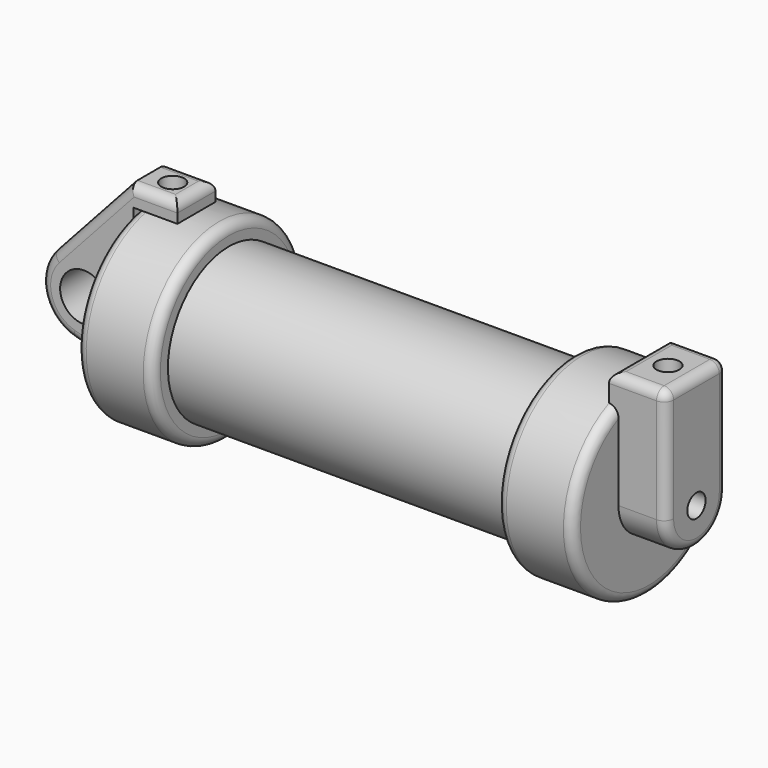
from build123d import *

# Parameters (mm, degrees)
F0_W       = 5.842
F0_H       = 12.7
F0_R       = 3.175
F2_DEPTH   = 3.175
F3_R       = 1.524
F4_DEPTH   = 1.27
F5_DEPTH   = 6.35
F6_R       = 1.27
F6_2_R     = 1.27
F9_D       = 3.048
F9_DEPTH   = 17.78
F9_TIP     = 0.9157115834
F9_2_D     = 3.048
F9_2_DEPTH = 17.78
F9_2_TIP   = 0.9157115834
F10_D      = 3.048
F10_DEPTH  = 10.414
F10_TIP    = 0.9157115834


with BuildPart() as f1:
    # F0 (on Front) → F1 (revolve)
    with BuildSketch(Plane.XZ):
        Polygon((5.842, 12.7), (5.842, 0), (66.294, 0), (66.294, 12.7), (56.134, 12.7), (56.134, 10.16), (10.16, 10.16), (10.16, 12.7), align=None)
        with Locations((2.921, 6.35)):
            Rectangle(F0_W, F0_H)
    revolve(axis=Axis((33.147, 0, 0), (-1, 0, 0)))

    # F3 (on face) → F4 (join)
    with BuildSketch(Plane.YZ.offset(66.294)):
        with BuildLine():
            ThreePointArc((-5.08, 0), (0, 5.08), (5.08, 0))
            Line((5.08, 0), (5.08, 11.6397422652))
            ThreePointArc((5.08, 11.6397422652), (0, 12.7), (-5.08, 11.6397422652))
            Line((-5.08, 11.6397422652), (-5.08, 0))
        make_face()
        with BuildLine():
            ThreePointArc((-5.08, 11.6397422652), (0, 12.7), (5.08, 11.6397422652))
            Line((5.08, 11.6397422652), (5.08, 15.24))
            Line((5.08, 15.24), (-5.08, 15.24))
            Line((-5.08, 15.24), (-5.08, 11.6397422652))
        make_face()
        with BuildLine():
            ThreePointArc((-5.08, 0), (0, -5.08), (5.08, 0))
            ThreePointArc((5.08, 0), (0, 5.08), (-5.08, 0))
        make_face()
        Circle(F3_R, mode=Mode.SUBTRACT)
    extrude(amount=-F4_DEPTH)

    # F3 (on face) → F5 (join)
    with BuildSketch(Plane.YZ.offset(66.294)):
        with BuildLine():
            ThreePointArc((-5.08, 0), (0, -5.08), (5.08, 0))
            ThreePointArc((5.08, 0), (0, 5.08), (-5.08, 0))
        make_face()
        Circle(F3_R, mode=Mode.SUBTRACT)
        with BuildLine():
            ThreePointArc((-5.08, 0), (0, 5.08), (5.08, 0))
            Line((5.08, 0), (5.08, 11.6397422652))
            ThreePointArc((5.08, 11.6397422652), (0, 12.7), (-5.08, 11.6397422652))
            Line((-5.08, 11.6397422652), (-5.08, 0))
        make_face()
        with BuildLine():
            ThreePointArc((-5.08, 11.6397422652), (0, 12.7), (5.08, 11.6397422652))
            Line((5.08, 11.6397422652), (5.08, 15.24))
            Line((5.08, 15.24), (-5.08, 15.24))
            Line((-5.08, 15.24), (-5.08, 11.6397422652))
        make_face()
    extrude(amount=F5_DEPTH)

    # F6
    f6_edges = [f1.edges().sort_by_distance(p)[0] for p in [
        (72.644, 0, 15.24),
        (68.834, 5.08, 15.24),
        (68.834, -5.08, 15.24),
        (66.294, 0, -12.7),
        (56.134, 0, -12.7),
        (65.024, 0, 15.24),
        (72.644, 0, -5.08),
        (0, 0, -12.7),
        (10.16, 0, -12.7),
    ]]
    fillet(f6_edges, radius=F6_R)

    # F9
    with Locations(Plane.XY.offset(15.24)):
        with Locations((2.667, 0)):
            Hole(F9_D / 2, depth=F9_DEPTH)
            with Locations((0, 0, -(F9_DEPTH + F9_TIP / 2))):  # 118° drill point
                Cone(0, F9_D / 2, F9_TIP, mode=Mode.SUBTRACT)

    # F10
    with Locations(Plane.XY.offset(15.24)):
        with Locations((68.834, 0)):
            Hole(F10_D / 2, depth=F10_DEPTH)
            with Locations((0, 0, -(F10_DEPTH + F10_TIP / 2))):  # 118° drill point
                Cone(0, F10_D / 2, F10_TIP, mode=Mode.SUBTRACT)


with BuildPart() as f2:
    # F0 (on Front) → F2 (new body, symmetric)
    with BuildSketch(Plane.XZ):
        with BuildLine():
            ThreePointArc((-8.1826630726, -5.5069827884), (-3.1957909266, -4.5493385486), (-0.9398, 0))
            ThreePointArc((-0.9398, 0), (-4.5919612295, 5.3297205562), (-10.8806298187, 3.8475430269))
            ThreePointArc((-10.8806298187, 3.8475430269), (-12.1459778134, -1.5837270034), (-8.1826630726, -5.5069827884))
        make_face()
        with Locations((-6.6548, 0)):
            Circle(F0_R, mode=Mode.SUBTRACT)
        with BuildLine():
            Line((5.842, 0), (0, 0))
            Line((0, 0), (-0.9398, 0))
            ThreePointArc((-0.9398, 0), (-3.1957909266, -4.5493385486), (-8.1826630726, -5.5069827884))
            Line((-8.1826630726, -5.5069827884), (5.842, -9.398))
            Line((5.842, -9.398), (5.842, 0))
        make_face()
        with BuildLine():
            Line((-0.9398, 0), (0, 0))
            Line((0, 0), (0, 12.7))
            Line((0, 12.7), (5.842, 12.7))
            Line((5.842, 12.7), (5.842, 15.24))
            Line((5.842, 15.24), (-0.508, 15.24))
            Line((-0.508, 15.24), (-10.8806298187, 3.8475430269))
            ThreePointArc((-10.8806298187, 3.8475430269), (-4.5919612295, 5.3297205562), (-0.9398, 0))
        make_face()
    extrude(amount=F2_DEPTH, both=True)

    # F6#2
    f6_2_edges = [f2.edges().sort_by_distance(p)[0] for p in [
        (-12.145978, -3.175, -1.583727),
        (-5.694315, -3.175, 9.543772),
        (-5.694315, 3.175, 9.543772),
        (-12.145978, 3.175, -1.583727),
        (2.667, 3.175, 15.24),
        (2.667, -3.175, 15.24),
        (5.842, 0, 15.24),
    ]]
    fillet(f6_2_edges, radius=F6_2_R)

    # F9#2
    with Locations(Plane.XY.offset(15.24)):
        with Locations((2.667, 0)):
            Hole(F9_2_D / 2, depth=F9_2_DEPTH)
            with Locations((0, 0, -(F9_2_DEPTH + F9_2_TIP / 2))):  # 118° drill point
                Cone(0, F9_2_D / 2, F9_2_TIP, mode=Mode.SUBTRACT)


solid = Compound([f1.part, f2.part])
